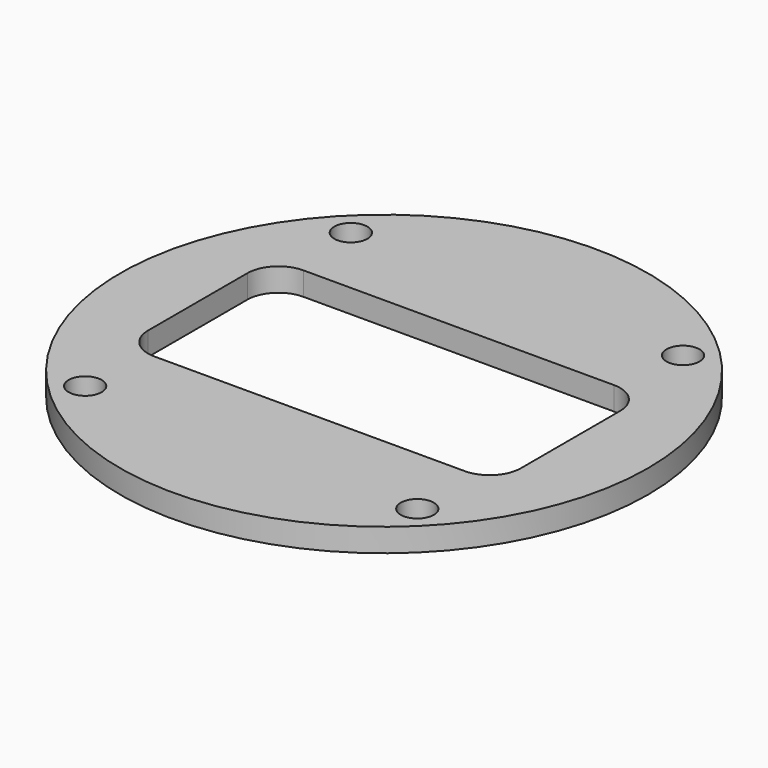
from build123d import *

# Parameters (mm, degrees)
F0_R     = 53.95
F1_DEPTH = 4.763
F2_D     = 6.7564


with BuildPart() as f1:
    # F0 (on Top) → F1 (new body)
    with BuildSketch(Plane.XY):
        Circle(F0_R)
        with BuildLine():
            ThreePointArc((38.1, -12.7), (36.2401280605, -17.1901280605), (31.75, -19.05))
            Line((31.75, -19.05), (-31.75, -19.05))
            ThreePointArc((-31.75, -19.05), (-36.2401280605, -17.1901280605), (-38.1, -12.7))
            Line((-38.1, -12.7), (-38.1, 12.7))
            ThreePointArc((-38.1, 12.7), (-36.2401280605, 17.1901280605), (-31.75, 19.05))
            Line((-31.75, 19.05), (31.75, 19.05))
            ThreePointArc((31.75, 19.05), (36.2401280605, 17.1901280605), (38.1, 12.7))
            Line((38.1, 12.7), (38.1, -12.7))
        make_face(mode=Mode.SUBTRACT)
    extrude(amount=F1_DEPTH)

    # F2 (through all)
    with Locations(Plane(origin=(0, 0, 0), x_dir=(1, 0, 0), z_dir=(0, 0, -1))):
        with Locations((33.9453681376, -33.9453681376), (-33.9453681376, -33.9453681376), (-33.9453681376, 33.9453681376), (33.9453681376, 33.9453681376)):
            Hole(F2_D / 2)


solid = f1.part
